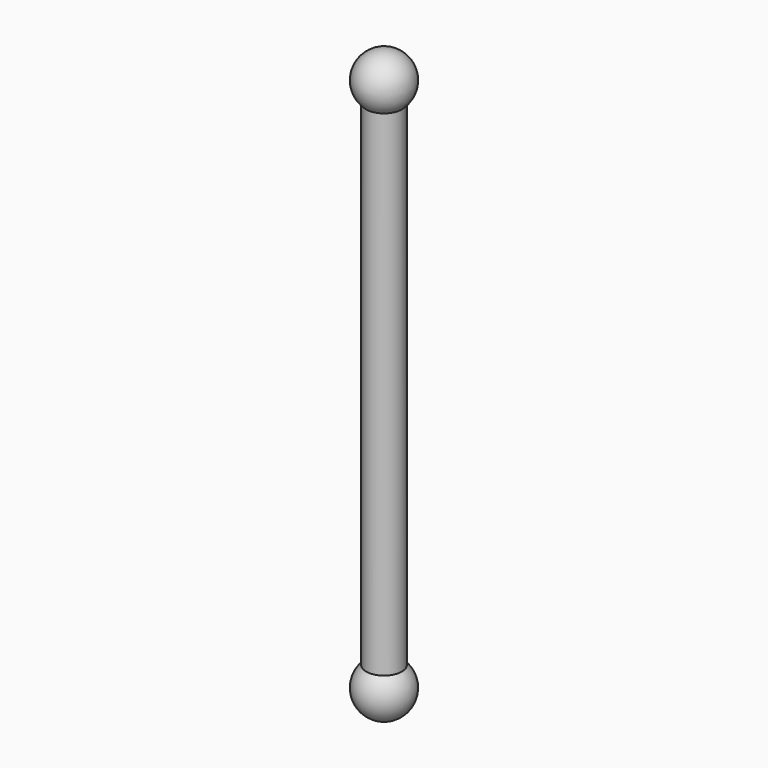
from build123d import *

# Parameters (mm, degrees)
F2_R     = 2.54
F3_DEPTH = 76.2


with BuildPart() as f1:
    # F0 (on Front) → F1 (revolve)
    with BuildSketch(Plane.XZ):
        with BuildLine():
            Line((0, 3.81), (0, -3.81))
            ThreePointArc((0, -3.81), (3.81, 0), (0, 3.81))
        make_face()
    revolve(axis=Axis((0, 0, 0), (0, 0, -1)))

    # F2 (on Top) → F3 (join)
    with BuildSketch(Plane.XY):
        Circle(F2_R)
    extrude(amount=F3_DEPTH)

    # F4 (on face) → F5 (revolve)
    with BuildSketch(Plane.XY.offset(76.2)):
        with BuildLine():
            Line((0, -2.54), (0, -3.81))
            ThreePointArc((0, -3.81), (3.81, 0), (0, 3.81))
            Line((0, 3.81), (0, 2.54))
            ThreePointArc((0, 2.54), (1.7960512242, 1.7960512242), (2.54, 0))
            ThreePointArc((2.54, 0), (1.7960512242, -1.7960512242), (0, -2.54))
        make_face()
        with BuildLine():
            Line((0, 2.54), (0, -2.54))
            ThreePointArc((0, -2.54), (1.7960512242, -1.7960512242), (2.54, 0))
            ThreePointArc((2.54, 0), (1.7960512242, 1.7960512242), (0, 2.54))
        make_face()
    revolve(axis=Axis((0, 0, 76.2), (0, -1, 0)))


solid = f1.part
